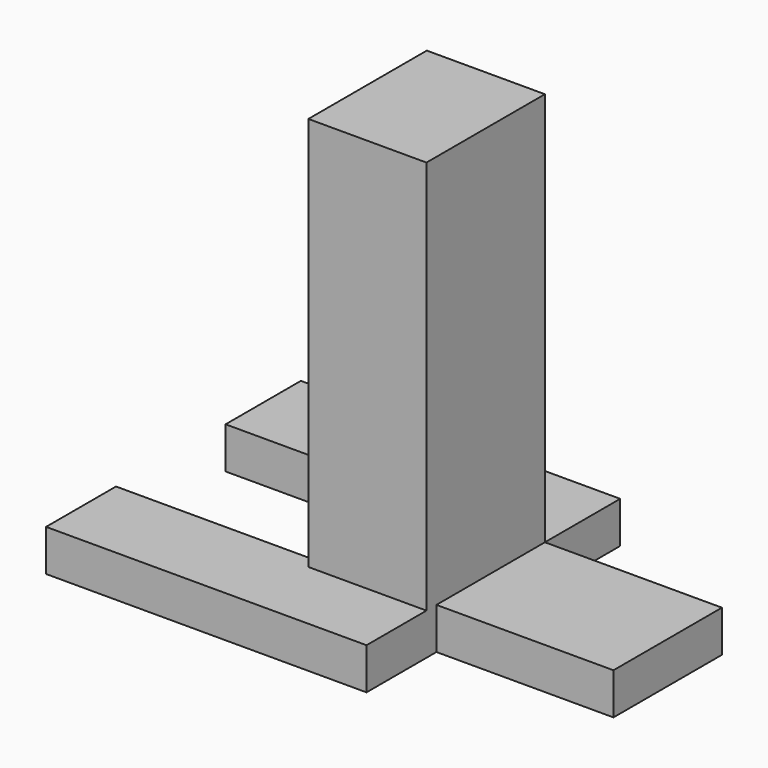
from build123d import *

# Parameters (mm, degrees)
F1_DEPTH = 10
F2_DEPTH = 15
F3_W     = 28.4455648065
F3_H     = 32.6516358182
F4_DEPTH = 50
F5_DEPTH = 45
F6_DEPTH = 3


with BuildPart() as f1:
    # F0 (on Top) → F1 (new body)
    with BuildSketch(Plane.XY):
        Polygon((17.2702856362, 36.0247381032), (-59.6364587545, 36.0247381032), (-59.6364587545, 13.3574875072), (-26.1752791703, 13.3574875072), (-26.1752791703, -19.294148311), (-59.9063038826, -19.294148311), (-59.9063038826, -40.3423085809), (17.2702856362, -40.3423085809), (17.2702856362, -19.294148311), (59.9063113332, -19.294148311), (59.9063113332, 13.3574875072), (17.2702856362, 13.3574875072), align=None)
    extrude(amount=F1_DEPTH)

    # F2 (cut): a face of the model
    f2_faces = [f1.faces().sort_by_distance(p)[0] for p in [
        (-26.1752791703, -2.9683304019, 5),
    ]]
    extrude(f2_faces, amount=-F2_DEPTH, mode=Mode.SUBTRACT)

    # F3 (on face) → F4 (join)
    with BuildSketch(Plane.XY.offset(10)):
        with Locations((3.047503233, -2.9683304019)):
            Rectangle(F3_W, F3_H)
    extrude(amount=F4_DEPTH)

    # F5 (add): a face of the model
    f5_faces = [f1.faces().sort_by_distance(p)[0] for p in [
        (3.047503233, -2.9683304019, 60),
    ]]
    extrude(f5_faces, amount=F5_DEPTH)

    # F6 (add): a face of the model
    f6_faces = [f1.faces().sort_by_distance(p)[0] for p in [
        (3.047503233, -19.294148311, 57.5),
    ]]
    extrude(f6_faces, amount=F6_DEPTH)


solid = f1.part
